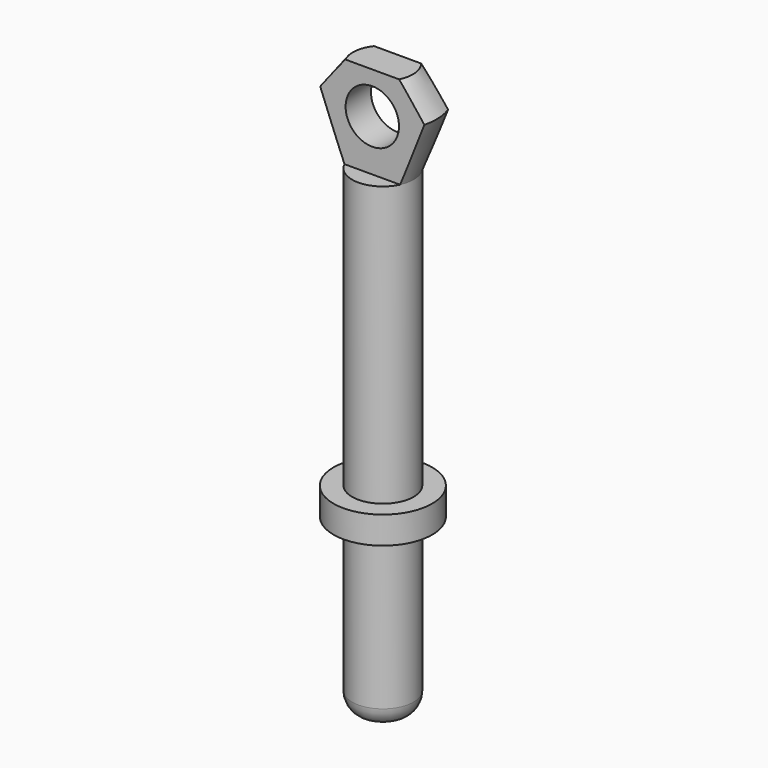
from build123d import *

# Parameters (mm, degrees)
F3_START = -1.34776
F2_W     = 11.6723957472
F2_H     = 7.4633890763
F3_DEPTH = 23.65224
F5_START = 0.96875
F4_W     = 10.800289805
F4_H     = 7.1797380224
F5_DEPTH = 7.09642
F6_R     = 1.95
F7_DEPTH = 12.5


with BuildPart() as f1:
    # F0 (on Front) → F1 (revolve)
    with BuildSketch(Plane.XZ):
        with BuildLine():
            Line((-7.0006786053, 12.4883897992), (-5.3249788856, 8.0614940048))
            Line((-5.3249788856, 8.0614940048), (-5.3249788856, -12.3409103399))
            Line((-5.3249788856, -12.3409103399), (-6.6749788856, -12.3409103399))
            Line((-6.6749788856, -12.3409103399), (-6.6749788856, -14.3409103399))
            Line((-6.6749788856, -14.3409103399), (-5.3249788856, -14.3409103399))
            Line((-5.3249788856, -14.3409103399), (-5.3249788856, -25.5409103399))
            ThreePointArc((-5.3249788856, -25.5409103399), (-4.9149283792, -26.5308598336), (-3.9249788856, -26.9409103399))
            Line((-3.9249788856, -26.9409103399), (-3.0749788856, -26.9409103399))
            Line((-3.0749788856, -26.9409103399), (-3.0749788856, 10.274941902))
            ThreePointArc((-3.0749788856, 10.274941902), (-4.5898110963, 11.7897741127), (-3.0749788856, 13.3046063234))
            Line((-3.0749788856, 13.3046063234), (-3.0749788856, 14.8147279002))
            Line((-3.0749788856, 14.8147279002), (-5.2641126534, 14.8147279002))
            Line((-5.2641126534, 14.8147279002), (-7.0006786053, 12.4883897992))
        make_face()
    revolve(axis=Axis((-3.0749788856, 0, -4.5506457565), (0, 0, 1)))

    # F2 (on Front) → F3 (cut)
    with BuildSketch(Plane.XZ.offset(F3_START)):
        with Locations((-2.7008608449, 11.793188543)):
            Rectangle(F2_W, F2_H)
    extrude(amount=-F3_DEPTH, mode=Mode.SUBTRACT)

    # F4 (on Front) → F5 (cut)
    with BuildSketch(Plane.XZ.offset(F5_START)):
        with Locations((-3.5045757541, 11.651363016)):
            Rectangle(F4_W, F4_H)
    extrude(amount=F5_DEPTH, mode=Mode.SUBTRACT)

    # F6 (on face) → F7 (cut, symmetric)
    with BuildSketch(Plane.XZ.offset(0.96875)):
        with Locations((-3.0749788856, 11.7897741127)):
            Circle(F6_R)
    extrude(amount=F7_DEPTH, both=True, mode=Mode.SUBTRACT)


solid = f1.part
